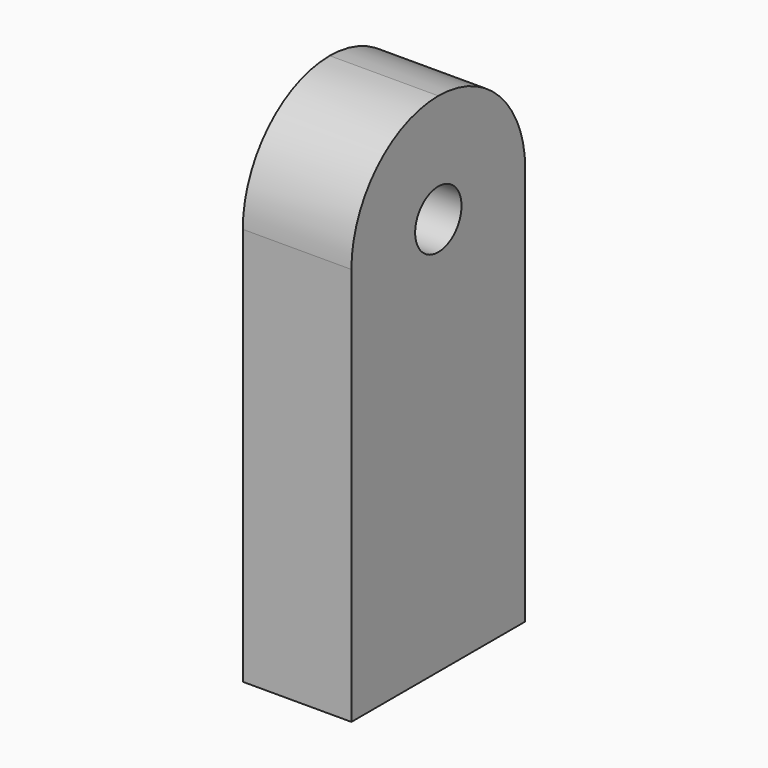
from build123d import *

# Parameters (mm, degrees)
F0_R     = 0.8
F1_DEPTH = 3


with BuildPart() as f1:
    # F0 (on Right) → F1 (new body)
    with BuildSketch(Plane.YZ):
        with BuildLine():
            Line((-3, 4), (-3, -7))
            Line((-3, -7), (3, -7))
            Line((3, -7), (3, 4))
            ThreePointArc((3, 4), (2.12132, 6.12132), (0, 7))
            ThreePointArc((0, 7), (-2.12132, 6.12132), (-3, 4))
        make_face()
        with Locations((0, 4)):
            Circle(F0_R, mode=Mode.SUBTRACT)
    extrude(amount=F1_DEPTH)


solid = f1.part
